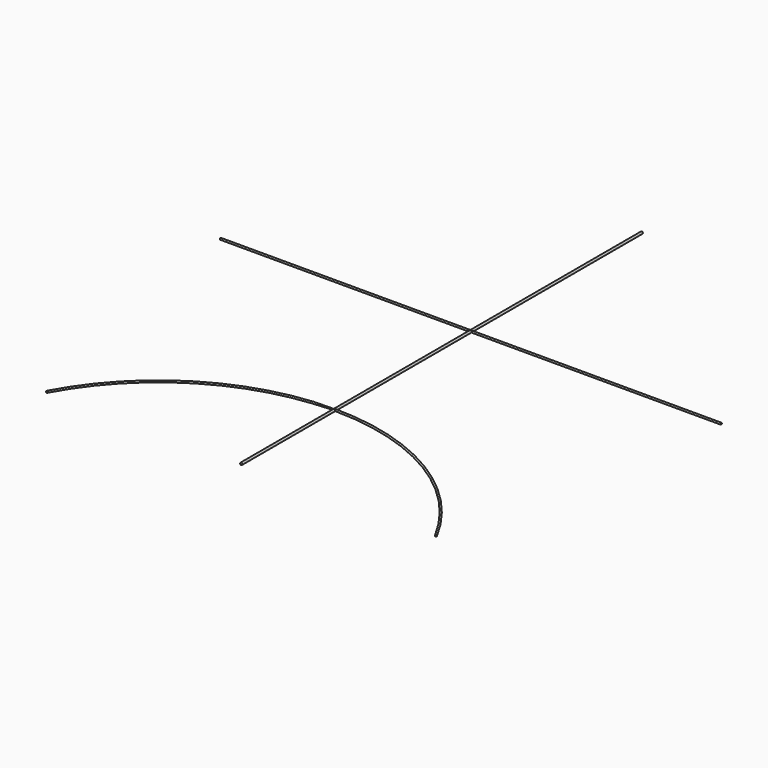
from build123d import *

# Parameters (mm, degrees)
SKETCH_R     = 1
PAD_DEPTH    = 450
SKETCH001_R  = 0.75
PAD001_DEPTH = 225
SKETCH002_R  = 0.75


with BuildPart() as part:
    # Sketch → Pad (new body)
    with BuildSketch(Plane.XZ):
        Circle(SKETCH_R)
    extrude(amount=-PAD_DEPTH)

    # Sketch001 → Pad001 (join, symmetric)
    with BuildSketch(Plane.YZ):
        with Locations((258, 0)):
            Circle(SKETCH001_R)
    extrude(amount=PAD001_DEPTH, both=True)

    # AdditivePipe: sweep along a path in Sketch003
    with BuildLine(Plane.XY) as additivepipe_path:
        ThreePointArc((175, 0), (102.041658, 76.736097), (0, 105))
        ThreePointArc((0, 105), (-102.041658, 76.736097), (-175, 0))
    # Sketch002 → AdditivePipe (sweep)
    with BuildSketch(Plane.YZ):
        with Locations((105, 0)):
            Circle(SKETCH002_R)
    sweep(path=additivepipe_path.line)


solid = part.part
